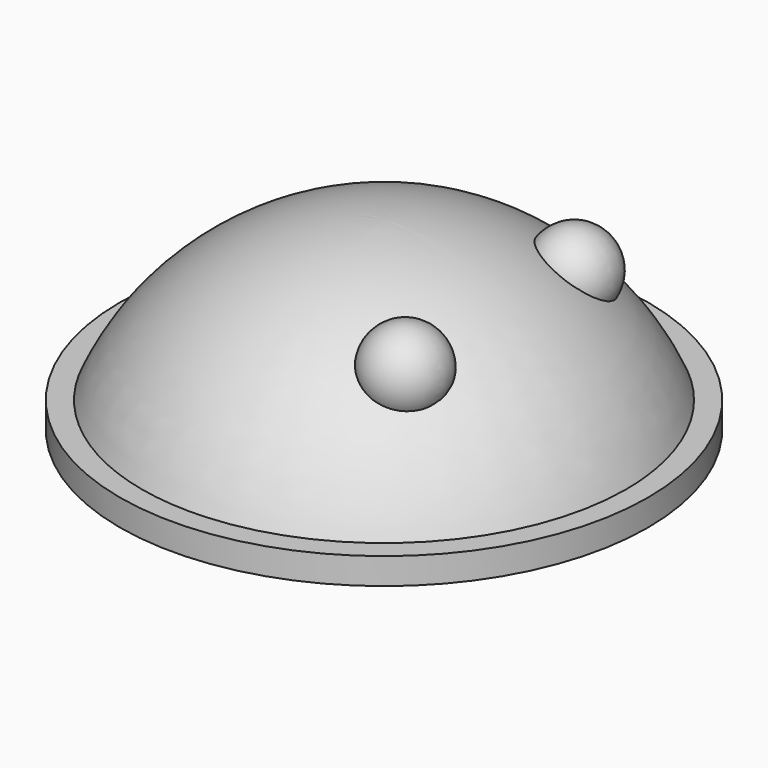
from build123d import *

# Parameters (mm, degrees)
CYLINDER_R     = 10
CYLINDER_DEPTH = 1


with BuildPart() as esfera001:
    # Sphere001 → Sphere001 (revolve)
    with BuildSketch(Plane(origin=(4, -4, 8), x_dir=(1, 0, 0), z_dir=(0, -1, 0))):
        with BuildLine():
            ThreePointArc((0, -1.5), (1.5, 0), (0, 1.5))
            Line((0, 1.5), (0, -1.5))
        make_face()
    revolve(axis=Axis((4, -4, 8), (0, 0, 1)))


with BuildPart() as esfera002:
    # Sphere002 → Sphere002 (revolve)
    with BuildSketch(Plane(origin=(4, 4, 8), x_dir=(1, 0, 0), z_dir=(0, -1, 0))):
        with BuildLine():
            ThreePointArc((0, -1.5), (1.5, 0), (0, 1.5))
            Line((0, 1.5), (0, -1.5))
        make_face()
    revolve(axis=Axis((4, 4, 8), (0, 0, 1)))


with BuildPart() as cilindre:
    # Cylinder → Cylinder (new body)
    with BuildSketch(Plane.XY.offset(3)):
        Circle(CYLINDER_R)
    extrude(amount=CYLINDER_DEPTH)


with BuildPart() as fusion:
    # Sphere → Sphere (revolve)
    with BuildSketch(Plane.XZ):
        with BuildLine():
            ThreePointArc((9.396926, 3.420201), (5.735764, 8.19152), (0, 10))
            Line((0, 10), (0, 3.420201))
            Line((0, 3.420201), (9.396926, 3.420201))
        make_face()
    revolve(axis=Axis((0, 0, 0), (0, 0, 1)))

    # Fusion: union Cilindre
    add(cilindre.part)


solid = Compound([esfera001.part, esfera002.part, fusion.part])
